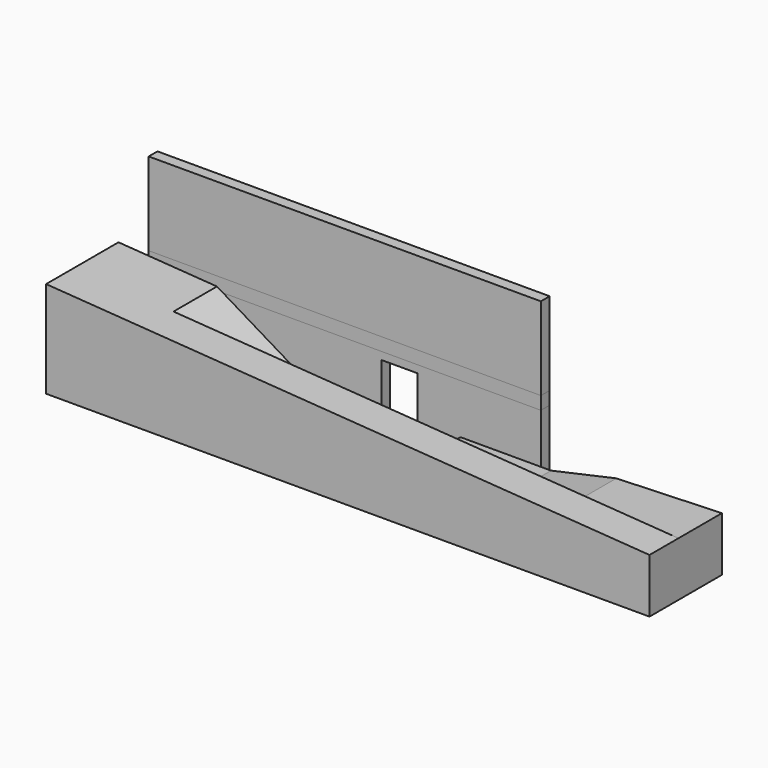
from build123d import *

# Parameters (mm, degrees)
F0_W      = 13000
F0_H      = 400
F1_DEPTH  = 365
F3_DEPTH  = 365
F4_W      = 13000
F4_H      = 430
F5_DEPTH  = 365
F6_W      = 13000
F6_H      = 2750
F7_DEPTH  = 365
F9_DEPTH  = 3000
F11_DEPTH = 1800


with BuildPart() as f1:
    # F0 (on Front) → F1 (new body)
    with BuildSketch(Plane.XZ):
        with Locations((6500, 200)):
            Rectangle(F0_W, F0_H)
    extrude(amount=F1_DEPTH)


with BuildPart() as f3:
    # F2 (on face) → F3 (new body)
    with BuildSketch(Plane.XZ.offset(365)):
        Polygon((0, 2850), (0, 400), (7715, 400), (7715, 2600), (8915, 2600), (8915, 400), (13000, 400), (13000, 2850), align=None)
    extrude(amount=-F3_DEPTH)


with BuildPart() as f5:
    # F4 (on Front) → F5 (new body)
    with BuildSketch(Plane.XZ):
        with Locations((6500, 3065)):
            Rectangle(F4_W, F4_H)
    extrude(amount=F5_DEPTH)


with BuildPart() as f7:
    # F6 (on Front) → F7 (new body)
    with BuildSketch(Plane.XZ):
        with Locations((6500, 4655)):
            Rectangle(F6_W, F6_H)
    extrude(amount=F7_DEPTH)


with BuildPart() as f9:
    # F8 (on face) → F9 (new body)
    with BuildSketch(Plane.XZ.offset(365)):
        Polygon((19000, 1800), (-1000, 3200), (-1000, 0), (19000, 0), align=None)
    extrude(amount=F9_DEPTH)

    # F10 (on face) → F11 (cut)
    with BuildSketch(Plane.XZ.offset(365)):
        Polygon((19000, 3130), (2000, 3130), (6793.124909, 250), (9215, 250), (9215, 440), (9495, 440), (9495, 630), (9775, 630), (9775, 820), (10055, 820), (10055, 1010), (10335, 1010), (10335, 1200), (13335, 1200), (15500, 1677.777307), (19000, 1800), align=None)
    extrude(amount=F11_DEPTH, mode=Mode.SUBTRACT)


solid = Compound([f1.part, f3.part, f5.part, f7.part, f9.part])
